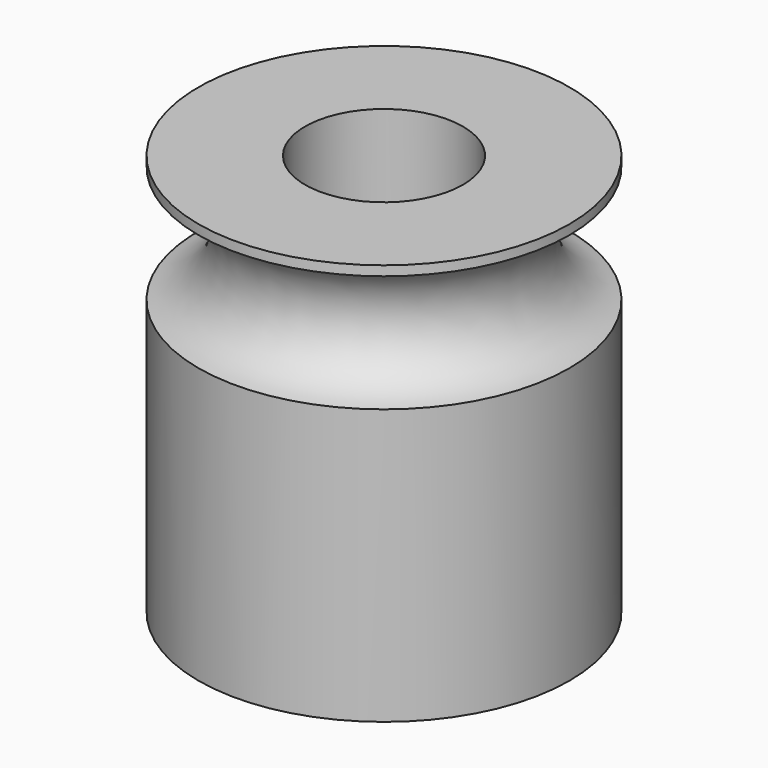
from build123d import *

# Parameters (mm, degrees)
F0_R      = 5.98
F0_R_2    = 2.545
F1_DEPTH  = 12.96
F2_R      = 2
F3_DEPTH  = 5.981
F6_R      = 1.915
F10_R     = 2
F11_DEPTH = 4
F12_SIZE  = 1.8
F14_DEPTH = 2


with BuildPart() as f1:
    # F0 (on Top) → F1 (new body)
    with BuildSketch(Plane.XY):
        Circle(F0_R)
        Circle(F0_R_2, mode=Mode.SUBTRACT)
    extrude(amount=F1_DEPTH)

    # F2 (on Front) → F3 (cut, through all)
    with BuildSketch(Plane.XZ):
        with Locations((0, 2.75)):
            Circle(F2_R)
    extrude(amount=-F3_DEPTH, mode=Mode.SUBTRACT)


with BuildPart() as f7:
    # F7: sweep along a path in F5
    with BuildLine(Plane.XY.offset(10.76)) as f7_path:
        CenterArc((0, 0), 6.2975, 0, 360)
    # F6 (on Front) → F7 (sweep)
    with BuildSketch(Plane.XZ):
        with Locations((6.2975, 10.76)):
            Circle(F6_R)
    sweep(path=f7_path.line)


with BuildPart() as f1_1:
    add(f1.part)

    # F8: cut F7
    add(f7.part, mode=Mode.SUBTRACT)


with BuildPart() as f11:
    # F10 (on offset) → F11 (new body)
    with BuildSketch(Plane.XZ.offset(-6)):
        with Locations((0, 2.75)):
            Circle(F10_R)
    extrude(amount=F11_DEPTH)

    # F12
    f12_edges = [f11.edges().sort_by_distance(p)[0] for p in [
        (-2, 2, 2.75),
    ]]
    chamfer(f12_edges, length=F12_SIZE)

    # F13 (on face) → F14 (cut)
    with BuildSketch(Plane(origin=(0, 6, 0), x_dir=(-1, 0, 0), z_dir=(0, 1, 0))):
        Polygon((0, 0.95), (1.558846, 1.85), (1.558846, 3.65), (0, 4.55), (-1.558846, 3.65), (-1.558846, 1.85), align=None)
    extrude(amount=-F14_DEPTH, mode=Mode.SUBTRACT)


solid = Compound([f1_1.part, f11.part])
